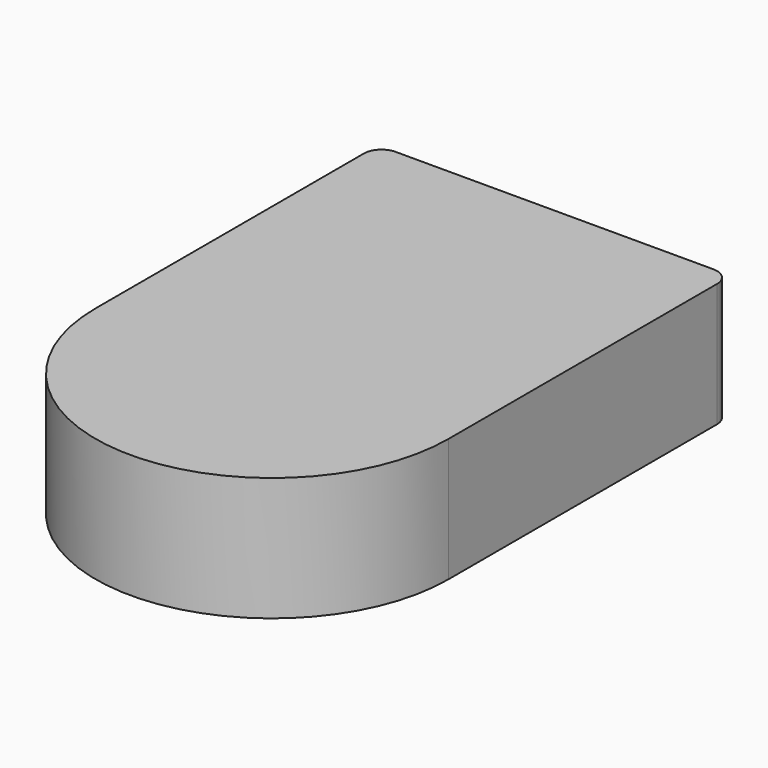
from build123d import *

# Parameters (mm, degrees)
PAD_DEPTH = 7
FILLET_R  = 1


with BuildPart() as part:
    # Sketch → Pad (new body)
    with BuildSketch(Plane.XY):
        with BuildLine():
            Line((-10, 20), (10, 20))
            Line((10, 20), (10, 0))
            ThreePointArc((-10, 0), (0, -10), (10, 0))
            Line((-10, 0), (-10, 20))
        make_face()
    extrude(amount=PAD_DEPTH)

    # Fillet
    fillet_edges = [part.edges().sort_by_distance(p)[0] for p in [
        (-10, 20, 3.5),
        (10, 20, 3.5),
    ]]
    fillet(fillet_edges, radius=FILLET_R)


solid = part.part
